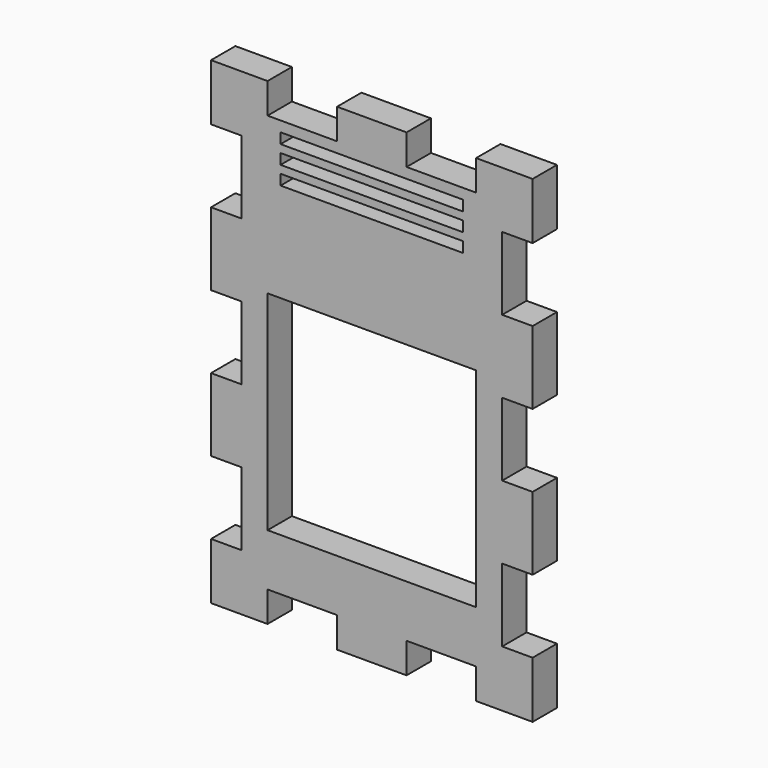
from build123d import *

# Parameters (mm, degrees)
F0_W     = 40
F0_H     = 40
F0_W_2   = 35
F0_H_2   = 2
F1_DEPTH = 5.842


with BuildPart() as f1:
    # F0 (on Front) → F1 (new body)
    with BuildSketch(Plane.XZ):
        Polygon((-20, -45.842), (-20, -40), (-6.666667, -40), (-6.666667, -45.842), (6.666667, -45.842), (6.666667, -40), (20, -40), (20, -45.842), (30.842, -45.842), (30.842, -35), (25, -35), (25, -21), (30.842, -21), (30.842, -7), (25, -7), (25, 7), (30.842, 7), (30.842, 21), (25, 21), (25, 35), (30.842, 35), (30.842, 45.842), (20, 45.842), (20, 40), (6.666667, 40), (6.666667, 45.842), (-6.666667, 45.842), (-6.666667, 40), (-20, 40), (-20, 45.842), (-30.842, 45.842), (-30.842, 35), (-25, 35), (-25, 21), (-30.842, 21), (-30.842, 7), (-25, 7), (-25, -7), (-30.842, -7), (-30.842, -21), (-25, -21), (-25, -35), (-30.842, -35), (-30.842, -45.842), align=None)
        with Locations((0, -10)):
            Rectangle(F0_W, F0_H, mode=Mode.SUBTRACT)
        with Locations((0, 30)):
            Rectangle(F0_W_2, F0_H_2, mode=Mode.SUBTRACT)
        with Locations((0, 33.5)):
            Rectangle(F0_W_2, F0_H_2, mode=Mode.SUBTRACT)
        with Locations((0, 37)):
            Rectangle(F0_W_2, F0_H_2, mode=Mode.SUBTRACT)
    extrude(amount=F1_DEPTH)


solid = f1.part
